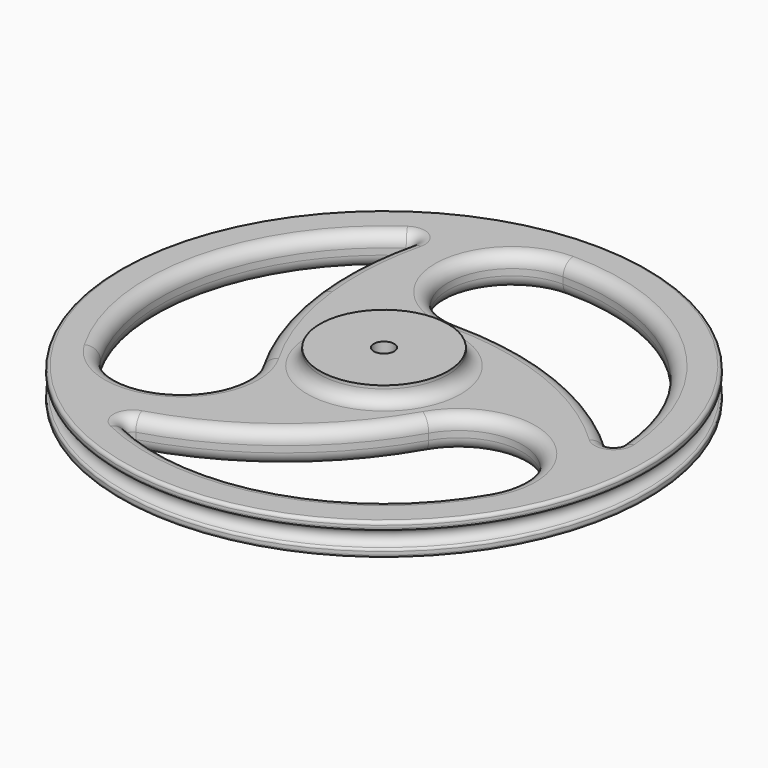
from build123d import *

# Parameters (mm, degrees)
F2_R      = 0.635
F3_R      = 0.508
F4_R      = 0.508
F5_R      = 0.508
F7_DEPTH  = 6.35
F8_R      = 12.7
F8_R_2    = 2.032
F9_DEPTH  = 3.175
F10_R     = 2.54
F12_DEPTH = 6.351
F13_R     = 2.54


with BuildPart() as f1:
    # F0 (on Front) → F1 (revolve)
    with BuildSketch(Plane.XZ):
        with BuildLine():
            Line((0, -3.175), (0, 0))
            Line((0, 0), (0, 3.175))
            Line((0, 3.175), (-52.3875, 3.175))
            Line((-52.3875, 3.175), (-52.3875, 1.5875))
            ThreePointArc((-52.3875, 1.5875), (-50.8, 0), (-52.3875, -1.5875))
            Line((-52.3875, -1.5875), (-52.3875, -3.175))
            Line((-52.3875, -3.175), (0, -3.175))
        make_face()
    revolve(axis=Axis((0, 0, -1.0012611747), (0, 0, -1)))

    # F2
    f2_edges = [f1.edges().sort_by_distance(p)[0] for p in [
        (52.3875, 0, 3.175),
    ]]
    fillet(f2_edges, radius=F2_R)

    # F3
    f3_edges = [f1.edges().sort_by_distance(p)[0] for p in [
        (52.3875, 0, 1.5875),
    ]]
    fillet(f3_edges, radius=F3_R)

    # F4
    f4_edges = [f1.edges().sort_by_distance(p)[0] for p in [
        (52.3875, 0, -1.5875),
    ]]
    fillet(f4_edges, radius=F4_R)

    # F5
    f5_edges = [f1.edges().sort_by_distance(p)[0] for p in [
        (52.3875, 0, -3.175),
    ]]
    fillet(f5_edges, radius=F5_R)

    # F6 (on face) → F7 (cut, through all)
    with BuildSketch(Plane.XY.offset(3.175)):
        Polygon((-3.6661742094, -6.35), (3.6661742094, -6.35), (7.3323484187, 0), (3.6661742094, 6.35), (-3.6661742094, 6.35), (-7.3323484187, 0), align=None)
    extrude(amount=-F7_DEPTH, mode=Mode.SUBTRACT)

    # F8 (on face) → F9 (join)
    with BuildSketch(Plane.XY.offset(3.175)):
        Circle(F8_R)
        Circle(F8_R_2, mode=Mode.SUBTRACT)
    extrude(amount=F9_DEPTH)

    # F10
    f10_edges = [f1.edges().sort_by_distance(p)[0] for p in [
        (51.7525, 0, 3.175),
        (-12.7, 0, 3.175),
    ]]
    fillet(f10_edges, radius=F10_R)

    # F11 (on face) → F12 (cut, through all)
    with BuildSketch(Plane.XY.offset(3.175)):
        with BuildLine():
            ThreePointArc((38.4948291982, -22.225), (33.8463065702, -4.8764773719), (16.4977839421, -9.525))
            Line((16.4977839421, -9.525), (38.4948291982, -22.225))
        make_face()
        with BuildLine():
            ThreePointArc((-16.4977839421, -9.525), (-21.6047280969, 1.8552176622), (-24.305647436, 14.03287209))
            Line((-24.305647436, 14.03287209), (-38.4948291982, 22.225))
            ThreePointArc((-38.4948291982, 22.225), (-44.45, 0), (-38.4948291982, -22.225))
            ThreePointArc((-38.4948291982, -22.225), (-21.1463065702, -26.8735226281), (-16.4977839421, -9.525))
        make_face()
        with BuildLine():
            Line((-38.4948291982, 22.225), (-24.305647436, 14.03287209))
            ThreePointArc((-24.305647436, 14.03287209), (-24.6152929326, 24.7775653805), (-23.0458579295, 35.4115292704))
            ThreePointArc((-23.0458579295, 35.4115292704), (-23.5600087981, 36.7516218667), (-24.9953401612, 36.7564344058))
            ThreePointArc((-24.9953401612, 36.7564344058), (-32.5659492076, 30.2532882875), (-38.4948291982, 22.225))
        make_face()
        with BuildLine():
            Line((38.4948291982, -22.225), (16.4977839421, -9.525))
            ThreePointArc((16.4977839421, -9.525), (1.3745331028, -27.0117037946), (-19.1443549702, -37.6640630541))
            ThreePointArc((-19.1443549702, -37.6640630541), (-20.0478337678, -38.7793770659), (-19.3343358673, -40.0248167587))
            ThreePointArc((-19.3343358673, -40.0248167587), (13.0762951684, -42.4830908088), (38.4948291982, -22.225))
        make_face()
        with BuildLine():
            ThreePointArc((44.3296760285, 3.2683823529), (30.2532882875, 32.5659492076), (0, 44.45))
            ThreePointArc((0, 44.45), (-12.7, 31.75), (0, 19.05))
            ThreePointArc((0, 19.05), (22.7055551342, 14.6962324826), (42.1902128997, 2.2525337838))
            ThreePointArc((42.1902128997, 2.2525337838), (43.6078425659, 2.0277551992), (44.3296760285, 3.2683823529))
        make_face()
    extrude(amount=-F12_DEPTH, mode=Mode.SUBTRACT)

    # F13
    f13_edges = [f1.edges().sort_by_distance(p)[0] for p in [
        (-43.329583, 9.917142, 3.175),
        (-12.7, 31.75, 3.175),
        (33.846307, -4.876477, 3.175),
        (33.846307, -4.876477, -3.175),
        (-12.7, 31.75, -3.175),
        (-21.146307, -26.873523, -3.175),
    ]]
    fillet(f13_edges, radius=F13_R)


solid = f1.part
